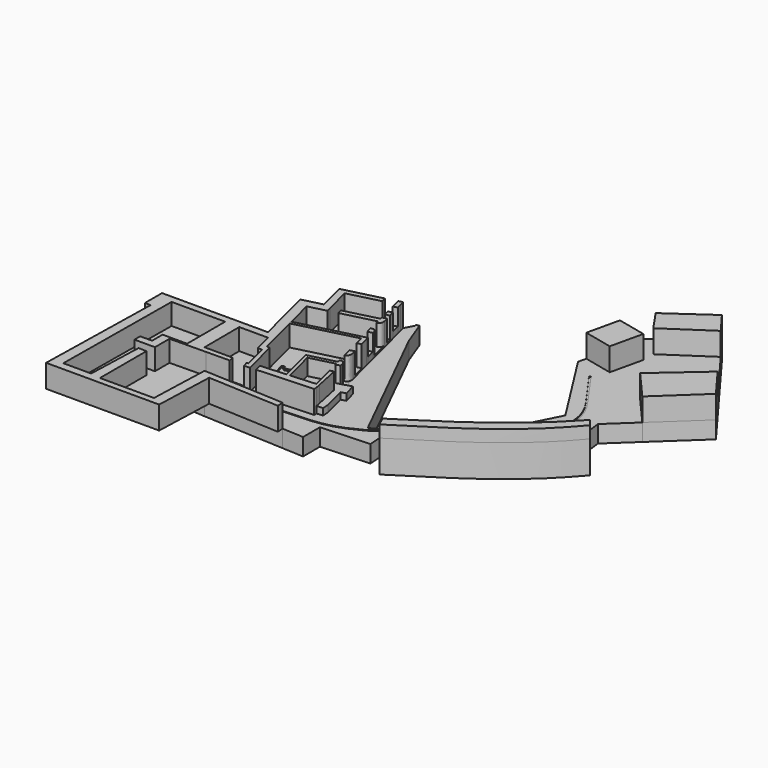
from build123d import *

# Parameters (mm, degrees)
F1_DEPTH      = 7.62
F2_DEPTH      = 0.254
F3_DEPTH      = 0.762
F4_DEPTH      = 10.16
F5_DEPTH      = 0.762
F6_DEPTH      = 0.254
F7_DEPTH      = 2.7686
F8_DEPTH      = 5.334
F8_DEPTH_BACK = 14.224
F9_DEPTH      = 2.9464


with BuildPart() as f1:
    # F0 (on Top) → F1 (new body)
    with BuildSketch(Plane.XY):
        with BuildLine():
            Line((-12.6761812717, 48.3828559518), (-16.8098323047, 59.3946687877))
            Line((-16.8098323047, 59.3946687877), (-18.0754773319, 59.1905415058))
            Line((-18.0754773319, 59.1905415058), (-18.0754773319, 58.3332106471))
            Line((-18.0754773319, 58.3332106471), (-20.0827391683, 54.4609852063))
            Line((-20.0827391683, 54.4609852063), (-19.5056806434, 52.1787221587))
            Line((-19.5056806434, 52.1787221587), (-18.9833287988, 50.1128237076))
            Line((-18.9833287988, 50.1128237076), (-18.000262011, 46.224800385))
            Line((-18.000262011, 46.224800385), (-17.3792582501, 43.7687341891))
            Line((-17.3792582501, 43.7687341891), (-16.7574322192, 41.3094159203))
            Line((-16.7574322192, 41.3094159203), (-16.2765634977, 39.4075829752))
            Line((-16.2765634977, 39.4075829752), (-14.1497886707, 30.9962011326))
            Line((-14.1497886707, 30.9962011326), (-13.8742033345, 29.9062627603))
            Line((-13.8742033345, 29.9062627603), (-12.87849824, 25.9682550096))
            Line((-12.87849824, 25.9682550096), (-12.5248798306, 24.5696962951))
            Line((-12.5248798306, 24.5696962951), (-11.5889594721, 20.8681368215))
            Line((-11.5889594721, 20.8681368215), (-10.1652735342, 15.2374673702))
            Line((-10.1652735342, 15.2374673702), (-9.7566802172, 13.6214832221))
            Line((-9.7566802172, 13.6214832221), (-7.6837537046, 5.4230711436))
            Line((-7.6837537046, 5.4230711436), (-7.2609593034, 3.7509217914))
            Line((-7.2609593034, 3.7509217914), (-2.8584464453, 5.0334590487))
            Line((-2.8584464453, 5.0334590487), (-1.3266666792, -0.4147126165))
            Line((-1.3266666792, -0.4147126165), (-3.5266084597, -0.9763392154))
            Line((-3.5266084597, -0.9763392154), (-0.9517425206, -11.0693192109))
            Line((-0.9517425206, -11.0693192109), (-0.7601856903, -14.1212727747))
            Line((-0.7601856903, -14.1212727747), (-3.5403339534, -14.2957696593))
            Line((-3.5403339534, -14.2957696593), (-3.4559788182, -15.6397465616))
            Line((-3.4559788182, -15.6397465616), (-28.2597893853, -16.9511491576))
            Line((-28.2597893853, -16.9511491576), (-30.8020056139, -17.0855587053))
            Line((-30.8020056139, -17.0855587053), (-33.3244204521, -17.2189213336))
            Line((-33.3244204521, -17.2189213336), (-34.0110547841, -14.9531504139))
            Line((-34.0110547841, -14.9531504139), (-40.2593947947, -14.9531504139))
            Line((-40.2593947947, -14.9531504139), (-39.6757572889, -17.2189213336))
            Line((-39.6757572889, -17.2189213336), (-50.0706737863, -17.3522405287))
            Line((-50.0706737863, -17.3522405287), (-49.9791838229, -24.4857259095))
            Line((-49.9791838229, -24.4857259095), (3.8339676073, -21.6302384586))
            Line((3.8339676073, -21.6302384586), (25.3778882325, -20.4870533198))
            Line((25.3778882325, -20.4870533198), (24.9826777726, -15.0812286884))
            Line((24.9826777726, -15.0812286884), (23.0629973181, -10.9605651515))
            add(Edge.make_bspline(
                [(78.5797134109, 31.8441808058), (60.9268292852, 12.6493925063), (42.7954800494, 1.7841810195), (23.0629973181, -10.9605651515)],
                knots=[0, 0, 0, 0, 70.1024396308, 70.1024396308, 70.1024396308, 70.1024396308], degree=3))
            Line((78.5797134109, 31.8441808058), (77.5089563305, 40.4020296926))
            Line((77.5089563305, 40.4020296926), (88.7966898129, 50.9506750607))
            Line((88.7966898129, 50.9506750607), (77.2702246904, 64.1441196203))
            Line((77.2702246904, 64.1441196203), (97.5041109803, 81.821473215))
            Line((97.5041109803, 81.821473215), (79.2579647258, 106.3466599292))
            Line((79.2579647258, 106.3466599292), (59.7791820765, 93.3022350073))
            Line((59.7791820765, 93.3022350073), (53.3378477425, 102.676579417))
            Line((53.3378477425, 102.676579417), (49.1371713579, 99.7282788157))
            Line((49.1371713579, 99.7282788157), (47.07757012, 90.7014783269))
            Line((47.07757012, 90.7014783269), (59.7791820765, 87.8034131995))
            Line((59.7791820765, 87.8034131995), (56.4678453432, 73.2905184251))
            Line((56.4678453432, 73.2905184251), (43.7662333868, 76.1885835524))
            Line((43.7662333868, 76.1885835524), (42.9484210908, 72.6042836905))
            Line((42.9484210908, 72.6042836905), (64.6599212594, 38.4550428309))
            Line((64.6599212594, 38.4550428309), (50.0077561795, 9.4635916073))
            Line((50.0077561795, 9.4635916073), (17.1304649358, -11.764455311))
            Line((17.1304649358, -11.764455311), (-12.6761812717, 48.3828559518))
        make_face()
        with BuildLine():
            Line((17.8010426462, -13.1423240528), (50.2679347992, 9.1400677338))
            add(Edge.make_bspline(
                [(63.9418102283, 50.7540985859), (76.6449421644, 33.4549658), (64.3145814538, 19.5927312598), (50.2679347992, 9.1400677338)],
                knots=[0, 0, 0, 0, 43.8029957082, 43.8029957082, 43.8029957082, 43.8029957082], degree=3))
            Line((63.9418102283, 50.7540985859), (52.748542836, 66.4242799346))
            Line((52.748542836, 66.4242799346), (53.3561395986, 66.8582885065))
            Line((53.3561395986, 66.8582885065), (64.5172744989, 51.0428994894))
            add(Edge.make_bspline(
                [(64.5172744989, 51.0428994894), (77.7038597941, 33.4506962176), (65.5404234564, 19.1193351692), (50.5721047521, 8.6788320914)],
                knots=[0, 0, 0, 0, 44.6002462524, 44.6002462524, 44.6002462524, 44.6002462524], degree=3))
            Line((50.5721047521, 8.6788320914), (18.0898915909, -13.667246124))
            add(Edge.make_bspline(
                [(-1.3786888449, -19.9185721576), (5.5132680573, -19.4868370891), (10.7976170257, -17.6870748401), (18.0898915909, -13.667246124)],
                knots=[0, 0, 0, 0, 20.4476086955, 20.4476086955, 20.4476086955, 20.4476086955], degree=3))
            Line((-1.3786888449, -19.9185721576), (-47.7882059079, -22.2653512335))
            Line((-47.7882059079, -22.2653512335), (-47.7882059079, -21.7648457355))
            Line((-47.7882059079, -21.7648457355), (-1.4225947671, -19.3792562932))
            add(Edge.make_bspline(
                [(17.8010426462, -13.1423240528), (10.4228860559, -17.0688875705), (5.4952161305, -18.762152642), (-1.4225947671, -19.3792562932)],
                knots=[0, 0, 0, 0, 20.2100855804, 20.2100855804, 20.2100855804, 20.2100855804], degree=3))
        make_face(mode=Mode.SUBTRACT)
        Polygon((107.4808463454, 68.4114471078), (97.5041109803, 81.821473215), (77.2702246904, 64.1441196203), (88.7966898129, 50.9506750607), align=None)
        Polygon((3.8339676073, -30.9665574893), (3.8339676073, -21.6302384586), (-49.9791838229, -24.4857259095), (-49.7858168034, -28.1298283195), (-41.6303043094, -28.7288039426), (-5.6233028408, -30.5010702046), align=None)
        Polygon((62.3637150996, 109.0115044907), (53.3378477425, 102.676579417), (59.7791820765, 93.3022350073), (79.2579647258, 106.3466599292), (72.1600428224, 115.8871874213), align=None)
        Polygon((47.07757012, 90.7014783269), (43.7662333868, 76.1885835524), (56.4678453432, 73.2905184251), (59.7791820765, 87.8034131995), align=None)
        with BuildLine():
            add(Edge.make_bspline(
                [(63.9418102283, 50.7540985859), (76.6449421644, 33.4549658), (64.3145814538, 19.5927312598), (50.2679347992, 9.1400677338)],
                knots=[0, 0, 0, 0, 43.8029957082, 43.8029957082, 43.8029957082, 43.8029957082], degree=3))
            Line((50.2679347992, 9.1400677338), (17.8010426462, -13.1423240528))
            add(Edge.make_bspline(
                [(17.8010426462, -13.1423240528), (10.4228860559, -17.0688875705), (5.4952161305, -18.762152642), (-1.4225947671, -19.3792562932)],
                knots=[0, 0, 0, 0, 20.2100855804, 20.2100855804, 20.2100855804, 20.2100855804], degree=3))
            Line((-1.4225947671, -19.3792562932), (-47.7882059079, -21.7648457355))
            Line((-47.7882059079, -21.7648457355), (-47.7882059079, -22.2653512335))
            Line((-47.7882059079, -22.2653512335), (-1.3786888449, -19.9185721576))
            add(Edge.make_bspline(
                [(-1.3786888449, -19.9185721576), (5.5132680573, -19.4868370891), (10.7976170257, -17.6870748401), (18.0898915909, -13.667246124)],
                knots=[0, 0, 0, 0, 20.4476086955, 20.4476086955, 20.4476086955, 20.4476086955], degree=3))
            Line((18.0898915909, -13.667246124), (50.5721047521, 8.6788320914))
            add(Edge.make_bspline(
                [(64.5172744989, 51.0428994894), (77.7038597941, 33.4506962176), (65.5404234564, 19.1193351692), (50.5721047521, 8.6788320914)],
                knots=[0, 0, 0, 0, 44.6002462524, 44.6002462524, 44.6002462524, 44.6002462524], degree=3))
            Line((64.5172744989, 51.0428994894), (53.3561395986, 66.8582885065))
            Line((53.3561395986, 66.8582885065), (52.748542836, 66.4242799346))
            Line((52.748542836, 66.4242799346), (63.9418102283, 50.7540985859))
        make_face()
    extrude(amount=-F1_DEPTH)

    # F0 (on Top) → F2 (cut)
    with BuildSketch(Plane.XY):
        with BuildLine():
            add(Edge.make_bspline(
                [(63.9418102283, 50.7540985859), (76.6449421644, 33.4549658), (64.3145814538, 19.5927312598), (50.2679347992, 9.1400677338)],
                knots=[0, 0, 0, 0, 43.8029957082, 43.8029957082, 43.8029957082, 43.8029957082], degree=3))
            Line((50.2679347992, 9.1400677338), (17.8010426462, -13.1423240528))
            add(Edge.make_bspline(
                [(17.8010426462, -13.1423240528), (10.4228860559, -17.0688875705), (5.4952161305, -18.762152642), (-1.4225947671, -19.3792562932)],
                knots=[0, 0, 0, 0, 20.2100855804, 20.2100855804, 20.2100855804, 20.2100855804], degree=3))
            Line((-1.4225947671, -19.3792562932), (-47.7882059079, -21.7648457355))
            Line((-47.7882059079, -21.7648457355), (-47.7882059079, -22.2653512335))
            Line((-47.7882059079, -22.2653512335), (-1.3786888449, -19.9185721576))
            add(Edge.make_bspline(
                [(-1.3786888449, -19.9185721576), (5.5132680573, -19.4868370891), (10.7976170257, -17.6870748401), (18.0898915909, -13.667246124)],
                knots=[0, 0, 0, 0, 20.4476086955, 20.4476086955, 20.4476086955, 20.4476086955], degree=3))
            Line((18.0898915909, -13.667246124), (50.5721047521, 8.6788320914))
            add(Edge.make_bspline(
                [(64.5172744989, 51.0428994894), (77.7038597941, 33.4506962176), (65.5404234564, 19.1193351692), (50.5721047521, 8.6788320914)],
                knots=[0, 0, 0, 0, 44.6002462524, 44.6002462524, 44.6002462524, 44.6002462524], degree=3))
            Line((64.5172744989, 51.0428994894), (53.3561395986, 66.8582885065))
            Line((53.3561395986, 66.8582885065), (52.748542836, 66.4242799346))
            Line((52.748542836, 66.4242799346), (63.9418102283, 50.7540985859))
        make_face()
    extrude(amount=-F2_DEPTH, mode=Mode.SUBTRACT)



with BuildPart() as f3:
    # F0 (on Top) → F3 (new body)
    with BuildSketch(Plane.XY):
        Polygon((-10.1652735342, 15.2374673702), (-11.5889594721, 20.8681368215), (-13.502332791, 20.3843501756), (-12.078646853, 14.7536807243), align=None)
        Polygon((-14.4382531494, 24.0859096492), (-40.7823292489, 17.4249449068), (-36.1076202903, -1.0635013335), (-34.8531007767, -1.0635013335), (-30.8020056139, -17.0855587053), (-28.2597893853, -16.9511491576), (-29.0491541934, -13.8292160175), (-32.462580353, -0.3291357759), (-33.0186990408, -0.4697475384), (-34.3990377302, 4.9894838018), (-33.0742987288, 5.3244372747), (-32.7380340803, 3.9945125818), (-16.8784707785, 8.0045219511), (-17.1819228816, 9.2046732214), (-11.0665667007, 10.750909717), (-12.078646853, 14.7536807243), (-13.502332791, 20.3843501756), align=None)
    extrude(amount=F3_DEPTH)


with BuildPart() as f3b:
    # F0 (on Top) → F3, piece 2 (new body)
    with BuildSketch(Plane.XY):
        with BuildLine():
            Line((-14.1497886707, 30.9962011326), (-16.2765634977, 39.4075829752))
            add(Edge.make_bspline(
                [(-17.7067324384, 36.6491781141), (-16.7993929683, 36.8820480327), (-15.7500539432, 37.3252408062), (-16.2765634977, 39.4075829752)],
                knots=[0, 0, 0, 0, 3.1071177282, 3.1071177282, 3.1071177282, 3.1071177282], degree=3))
            Line((-17.7067324384, 36.6491781141), (-17.9778440334, 37.7214228663))
            Line((-17.9778440334, 37.7214228663), (-32.5366007137, 34.0403157903))
            Line((-32.5366007137, 34.0403157903), (-36.5436288482, 33.0271592452))
            Line((-36.5436288482, 33.0271592452), (-44.2355223962, 31.0823033492))
            Line((-44.2355223962, 31.0823033492), (-41.1359476583, 18.8235036213))
            Line((-41.1359476583, 18.8235036213), (-14.935274078, 25.448209771))
            Line((-14.935274078, 25.448209771), (-15.9309791725, 29.3862175217))
            Line((-15.9309791725, 29.3862175217), (-16.6282927859, 32.1440887319))
            add(Edge.make_bspline(
                [(-16.6282927859, 32.1440887319), (-15.4255925192, 32.5564868073), (-14.4068928481, 32.0130466312), (-14.1497886707, 30.9962011326)],
                knots=[0, 0, 0, 0, 2.7314151258, 2.7314151258, 2.7314151258, 2.7314151258], degree=3))
        make_face()
    extrude(amount=F3_DEPTH)


with BuildPart() as f3c:
    # F0 (on Top) → F3, piece 3 (new body)
    with BuildSketch(Plane.XY):
        Polygon((-20.8802320391, 49.6332014367), (-21.4025838837, 51.6990998878), (-26.1634760197, 50.4953326902), (-40.0712365137, 46.9788266663), (-37.0747746958, 35.1278379261), (-33.0677465612, 36.1409944712), (-18.4061220658, 39.8481111476), (-18.6543354595, 40.8297936494), (-16.7574322192, 41.3094159203), (-17.3792582501, 43.7687341891), (-19.2761614904, 43.2891119182), (-19.8971652513, 45.7451781141), align=None)
    extrude(amount=F3_DEPTH)


with BuildPart() as f4:
    # F0 (on Top) → F4 (new body)
    with BuildSketch(Plane.XY):
        with BuildLine():
            Line((-7.2609593034, 3.7509217914), (-7.6837537046, 5.4230711436))
            add(Edge.make_bspline(
                [(-10.0257171764, 6.634356014), (-9.0562726309, 7.0605311549), (-7.9575935091, 6.5061059485), (-7.6837537046, 5.4230711436)],
                knots=[0, 0, 0, 0, 2.6366653069, 2.6366653069, 2.6366653069, 2.6366653069], degree=3))
            Line((-10.0257171764, 6.634356014), (-9.7190405566, 5.4214517995))
            Line((-9.7190405566, 5.4214517995), (-21.6988299004, 2.3924234085))
            Line((-21.6988299004, 2.3924234085), (-17.7815258503, -13.1004909053))
            Line((-17.7815258503, -13.1004909053), (-16.4108430646, -13.0048806458))
            Line((-16.4108430646, -13.0048806458), (-20.0027792702, 1.2012057699))
            Line((-20.0027792702, 1.2012057699), (-9.3340316785, 3.8987439673))
            Line((-9.3340316785, 3.8987439673), (-9.1743326222, 3.2671351455))
            Line((-9.1743326222, 3.2671351455), (-7.2609593034, 3.7509217914))
        make_face()
        Polygon((-3.9731790312, -12.1160745621), (-6.2529587112, -1.1137408068), (-7.9576676215, -1.5447677255), (-5.2567599517, -12.2268415603), align=None)
        Polygon((-29.0491541934, -13.8292160175), (-28.2597893853, -16.9511491576), (-3.4559788182, -15.6397465616), (-3.5403339534, -14.2957696593), (-3.9731790312, -12.1160745621), (-5.2567599517, -12.2268415603), (-16.4108430646, -13.0048806458), (-17.7815258503, -13.1004909053), align=None)
    extrude(amount=F4_DEPTH)


with BuildPart() as f4b:
    # F0 (on Top) → F4, piece 2 (new body)
    with BuildSketch(Plane.XY):
        with BuildLine():
            Line((-9.7566802172, 13.6214832221), (-10.1652735342, 15.2374673702))
            Line((-10.1652735342, 15.2374673702), (-12.078646853, 14.7536807243))
            Line((-12.078646853, 14.7536807243), (-11.0665667007, 10.750909717))
            add(Edge.make_bspline(
                [(-11.0665667007, 10.750909717), (-9.8681098918, 10.9782678047), (-9.3425432629, 11.9835740206), (-9.7566802172, 13.6214832221)],
                knots=[0, 0, 0, 0, 3.1553121633, 3.1553121633, 3.1553121633, 3.1553121633], degree=3))
        make_face()
    extrude(amount=F4_DEPTH)


with BuildPart() as f4c:
    # F0 (on Top) → F4, piece 3 (new body)
    with BuildSketch(Plane.XY):
        Polygon((-11.5889594721, 20.8681368215), (-12.5248798306, 24.5696962951), (-14.4382531494, 24.0859096492), (-13.502332791, 20.3843501756), align=None)
        Polygon((-14.935274078, 25.448209771), (-41.1359476583, 18.8235036213), (-40.7823292489, 17.4249449068), (-14.4382531494, 24.0859096492), (-12.5248798306, 24.5696962951), (-12.87849824, 25.9682550096), align=None)
        Polygon((-40.0712365137, 46.9788266663), (-26.1634760197, 50.4953326902), (-26.7103246308, 52.6581157077), (-43.5927866907, 48.3894716254), (-40.4502472075, 35.9607465845), (-49.1991546991, 33.7486301256), (-42.5850003547, 7.5896888727), (-89.5528569818, 7.5896888727), (-89.5528569818, -1.9270023331), (-87.0198979974, -1.9270023331), (-88.240891695, -58.3441033959), (-38.0853004754, -58.3441033959), (-37.1506735682, -31.7812673748), (-5.3922519875, -33.34441834), (-5.6233028408, -30.5010702046), (-41.6303043094, -28.7288039426), (-42.5754799722, -55.5914439453), (-66.5528401732, -55.5914439453), (-66.5528401732, -29.8055708408), (-70.1397388259, -29.6793639858), (-71.0258866648, -54.8643865395), (-83.3802819252, -54.8643865395), (-82.828477025, 4.4863475487), (-59.0617395937, 4.4863475487), (-59.0617395937, -16.6348647326), (-69.914765656, -16.6348647326), (-69.914765656, -22.4709417671), (-75.2038881183, -22.4709417671), (-75.2038881183, -25.6410315633), (-66.116169095, -25.6410315633), (-66.116169095, -17.5580307841), (-50.0706737863, -17.3522405287), (-39.6757572889, -17.2189213336), (-40.2593947947, -14.9531504139), (-52.6582226157, -14.9531504139), (-52.7603514493, 4.3925195932), (-39.9876475754, 4.3925195932), (-37.8893315792, -3.906307742), (-35.9813844702, -3.906307742), (-33.1925485664, -14.9361372216), (-34.0110547841, -14.9531504139), (-33.3244204521, -17.2189213336), (-30.8020056139, -17.0855587053), (-34.8531007767, -1.0635013335), (-36.1076202903, -1.0635013335), (-40.7823292489, 17.4249449068), (-41.1359476583, 18.8235036213), (-44.2355223962, 31.0823033492), (-36.5436288482, 33.0271592452), (-37.0747746958, 35.1278379261), align=None)
    extrude(amount=F4_DEPTH)


with BuildPart() as f4d:
    # F0 (on Top) → F4, piece 4 (new body)
    with BuildSketch(Plane.XY):
        with BuildLine():
            Line((-13.8742033345, 29.9062627603), (-14.1497886707, 30.9962011326))
            add(Edge.make_bspline(
                [(-16.6282927859, 32.1440887319), (-15.4255925192, 32.5564868073), (-14.4068928481, 32.0130466312), (-14.1497886707, 30.9962011326)],
                knots=[0, 0, 0, 0, 2.7314151258, 2.7314151258, 2.7314151258, 2.7314151258], degree=3))
            Line((-16.6282927859, 32.1440887319), (-15.9309791725, 29.3862175217))
            Line((-15.9309791725, 29.3862175217), (-13.8742033345, 29.9062627603))
        make_face()
    extrude(amount=F4_DEPTH)


with BuildPart() as f4e:
    # F0 (on Top) → F4, piece 5 (new body)
    with BuildSketch(Plane.XY):
        with BuildLine():
            Line((-16.2765634977, 39.4075829752), (-16.7574322192, 41.3094159203))
            Line((-16.7574322192, 41.3094159203), (-18.6543354595, 40.8297936494))
            Line((-18.6543354595, 40.8297936494), (-18.4061220658, 39.8481111476))
            Line((-18.4061220658, 39.8481111476), (-33.0677465612, 36.1409944712))
            Line((-33.0677465612, 36.1409944712), (-32.5366007137, 34.0403157903))
            Line((-32.5366007137, 34.0403157903), (-17.9778440334, 37.7214228663))
            Line((-17.9778440334, 37.7214228663), (-17.7067324384, 36.6491781141))
            add(Edge.make_bspline(
                [(-17.7067324384, 36.6491781141), (-16.7993929683, 36.8820480327), (-15.7500539432, 37.3252408062), (-16.2765634977, 39.4075829752)],
                knots=[0, 0, 0, 0, 3.1071177282, 3.1071177282, 3.1071177282, 3.1071177282], degree=3))
        make_face()
    extrude(amount=F4_DEPTH)


with BuildPart() as f4f:
    # F0 (on Top) → F4, piece 6 (new body)
    with BuildSketch(Plane.XY):
        Polygon((-17.3792582501, 43.7687341891), (-18.000262011, 46.224800385), (-19.8971652513, 45.7451781141), (-19.2761614904, 43.2891119182), align=None)
    extrude(amount=F4_DEPTH)


with BuildPart() as f4g:
    # F0 (on Top) → F4, piece 7 (new body)
    with BuildSketch(Plane.XY):
        Polygon((-19.5056806434, 52.1787221587), (-20.0827391683, 54.4609852063), (-21.9299640891, 53.9939238441), (-21.4025838837, 51.6990998878), align=None)
        Polygon((-18.9833287988, 50.1128237076), (-19.5056806434, 52.1787221587), (-21.4025838837, 51.6990998878), (-20.8802320391, 49.6332014367), align=None)
    extrude(amount=F4_DEPTH)


with BuildPart() as f4h:
    # F0 (on Top) → F4, piece 8 (new body)
    with BuildSketch(Plane.XY):
        Polygon((47.07757012, 90.7014783269), (43.7662333868, 76.1885835524), (56.4678453432, 73.2905184251), (59.7791820765, 87.8034131995), align=None)
    extrude(amount=F4_DEPTH)


with BuildPart() as f4i:
    # F0 (on Top) → F4, piece 9 (new body)
    with BuildSketch(Plane.XY):
        Polygon((62.3637150996, 109.0115044907), (53.3378477425, 102.676579417), (59.7791820765, 93.3022350073), (79.2579647258, 106.3466599292), (72.1600428224, 115.8871874213), align=None)
    extrude(amount=F4_DEPTH)


with BuildPart() as f4j:
    # F0 (on Top) → F4, piece 10 (new body)
    with BuildSketch(Plane.XY):
        Polygon((107.4808463454, 68.4114471078), (97.5041109803, 81.821473215), (77.2702246904, 64.1441196203), (88.7966898129, 50.9506750607), align=None)
    extrude(amount=F4_DEPTH)


with BuildPart() as f1_1:
    add(f1.part)

    add(f4c.part)  # F5 merges F4c
    # F0 (on Top) → F5 (join)
    with BuildSketch(Plane.XY):
        Polygon((-49.7858168034, -28.1298283195), (-49.9791838229, -24.4857259095), (-50.0706737863, -17.3522405287), (-66.116169095, -17.5580307841), (-66.116169095, -25.6410315633), (-75.2038881183, -25.6410315633), (-75.2038881183, -22.4709417671), (-69.914765656, -22.4709417671), (-69.914765656, -16.6348647326), (-59.0617395937, -16.6348647326), (-59.0617395937, 4.4863475487), (-82.828477025, 4.4863475487), (-83.3802819252, -54.8643865395), (-71.0258866648, -54.8643865395), (-70.1397388259, -29.6793639858), (-66.5528401732, -29.8055708408), (-66.5528401732, -55.5914439453), (-42.5754799722, -55.5914439453), (-41.6303043094, -28.7288039426), align=None)
        Polygon((-40.2593947947, -14.9531504139), (-34.0110547841, -14.9531504139), (-33.1925485664, -14.9361372216), (-35.9813844702, -3.906307742), (-37.8893315792, -3.906307742), (-39.9876475754, 4.3925195932), (-52.7603514493, 4.3925195932), (-52.6582226157, -14.9531504139), align=None)
    extrude(amount=F5_DEPTH)

    # F0 (on Top) → F8 (join, two sides)
    with BuildSketch(Plane.XY) as f8_sk:
        with BuildLine():
            Line((82.3670476675, 30.0295669585), (79.967148602, 32.9698324203))
            Line((79.967148602, 32.9698324203), (78.5797134109, 31.8441808058))
            add(Edge.make_bspline(
                [(78.5797134109, 31.8441808058), (60.9268292852, 12.6493925063), (42.7954800494, 1.7841810195), (23.0629973181, -10.9605651515)],
                knots=[0, 0, 0, 0, 70.1024396308, 70.1024396308, 70.1024396308, 70.1024396308], degree=3))
            Line((23.0629973181, -10.9605651515), (24.9826777726, -15.0812286884))
            add(Edge.make_bspline(
                [(24.9826777726, -15.0812286884), (48.8209836185, 0), (65.107434988, 9.6053583547), (82.3670476675, 30.0295669585)],
                knots=[0, 0, 0, 0, 72.992806441, 72.992806441, 72.992806441, 72.992806441], degree=3))
        make_face()
    extrude(amount=F8_DEPTH)
    extrude(f8_sk.sketch, amount=-F8_DEPTH_BACK)


    add(f4.part)  # F9 merges F4
    # F0 (on Top) → F9 (join)
    with BuildSketch(Plane.XY):
        Polygon((-2.8584464453, 5.0334590487), (-7.2609593034, 3.7509217914), (-6.2529587112, -1.1137408068), (-3.5266084597, -0.9763392154), (-1.3266666792, -0.4147126165), align=None)
        Polygon((-3.5266084597, -0.9763392154), (-6.2529587112, -1.1137408068), (-3.9731790312, -12.1160745621), (-0.9517425206, -11.0693192109), align=None)
        Polygon((-3.9731790312, -12.1160745621), (-3.5403339534, -14.2957696593), (-0.7601856903, -14.1212727747), (-0.9517425206, -11.0693192109), align=None)
        Polygon((-6.2529587112, -1.1137408068), (-7.2609593034, 3.7509217914), (-9.1743326222, 3.2671351455), (-7.9576676215, -1.5447677255), align=None)
        Polygon((-7.9576676215, -1.5447677255), (-9.1743326222, 3.2671351455), (-9.3340316785, 3.8987439673), (-20.0027792702, 1.2012057699), (-16.4108430646, -13.0048806458), (-5.2567599517, -12.2268415603), align=None)
    extrude(amount=F9_DEPTH)


with BuildPart() as f6:
    # F0 (on Top) → F6 (new body)
    with BuildSketch(Plane.XY):
        Polygon((-10.0257171764, 6.634356014), (-11.0665667007, 10.750909717), (-17.1819228816, 9.2046732214), (-16.8784707785, 8.0045219511), (-32.7380340803, 3.9945125818), (-33.0742987288, 5.3244372747), (-34.3990377302, 4.9894838018), (-33.0186990408, -0.4697475384), (-32.462580353, -0.3291357759), (-21.6988299004, 2.3924234085), (-9.7190405566, 5.4214517995), align=None)
        Polygon((-32.462580353, -0.3291357759), (-29.0491541934, -13.8292160175), (-17.7815258503, -13.1004909053), (-21.6988299004, 2.3924234085), align=None)
        with BuildLine():
            Line((-7.6837537046, 5.4230711436), (-9.7566802172, 13.6214832221))
            add(Edge.make_bspline(
                [(-11.0665667007, 10.750909717), (-9.8681098918, 10.9782678047), (-9.3425432629, 11.9835740206), (-9.7566802172, 13.6214832221)],
                knots=[0, 0, 0, 0, 3.1553121633, 3.1553121633, 3.1553121633, 3.1553121633], degree=3))
            Line((-11.0665667007, 10.750909717), (-10.0257171764, 6.634356014))
            add(Edge.make_bspline(
                [(-10.0257171764, 6.634356014), (-9.0562726309, 7.0605311549), (-7.9575935091, 6.5061059485), (-7.6837537046, 5.4230711436)],
                knots=[0, 0, 0, 0, 2.6366653069, 2.6366653069, 2.6366653069, 2.6366653069], degree=3))
        make_face()
    extrude(amount=-F6_DEPTH)


with BuildPart() as f7:
    # F0 (on Top) → F7 (new body)
    with BuildSketch(Plane.XY):
        Polygon((-12.87849824, 25.9682550096), (-13.8742033345, 29.9062627603), (-15.9309791725, 29.3862175217), (-14.935274078, 25.448209771), align=None)
    extrude(amount=F7_DEPTH)


with BuildPart() as f7b:
    # F0 (on Top) → F7, piece 2 (new body)
    with BuildSketch(Plane.XY):
        Polygon((-18.000262011, 46.224800385), (-18.9833287988, 50.1128237076), (-20.8802320391, 49.6332014367), (-19.8971652513, 45.7451781141), align=None)
    extrude(amount=F7_DEPTH)


solid = Compound([f3.part, f3b.part, f3c.part, f4b.part, f4d.part, f4e.part, f4f.part, f4g.part, f4h.part, f4i.part, f4j.part, f1_1.part, f6.part, f7.part, f7b.part])
